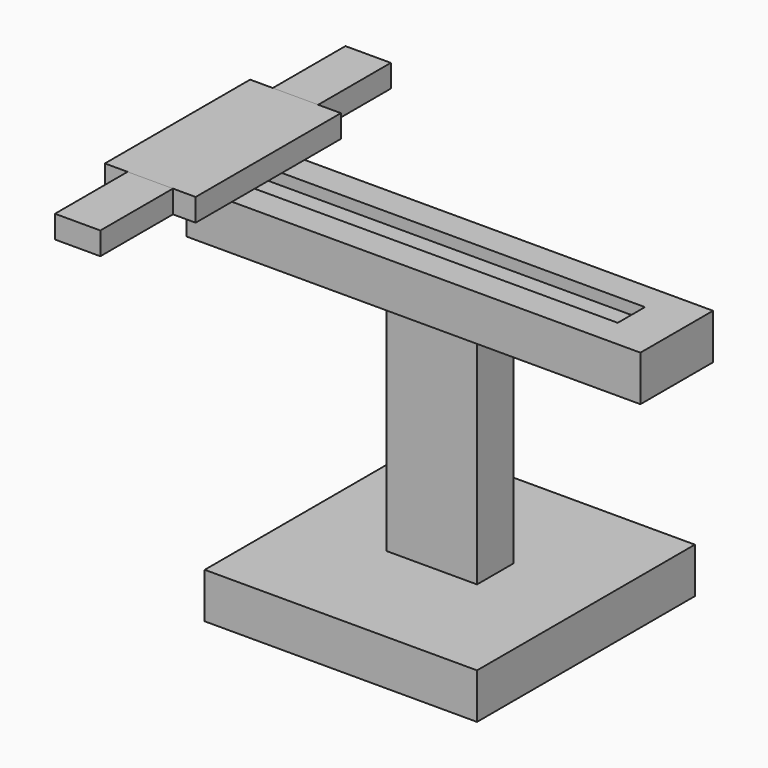
from build123d import *

# Parameters (mm, degrees)
F0_W      = 152.4
F0_H      = 152.4
F1_DEPTH  = 25.4
F2_W      = 50.8
F2_H      = 25.4
F3_DEPTH  = 152.4
F4_W      = 254
F4_H      = 50.8
F5_DEPTH  = 25.4
F6_W      = 50.8
F6_H      = 101.6
F7_DEPTH  = 12.7
F8_W      = 203.2
F8_H      = 19.05
F9_DEPTH  = 6.35
F10_W     = 25.4
F10_H     = 50.8
F11_DEPTH = 12.7
F12_W     = 19.05
F12_H     = 6.35
F13_DEPTH = 50.8


with BuildPart() as f1:
    # F0 (on Top) → F1 (new body)
    with BuildSketch(Plane.XY):
        Rectangle(F0_W, F0_H)
    extrude(amount=F1_DEPTH)

    # F2 (on Top) → F3 (join)
    with BuildSketch(Plane.XY):
        Rectangle(F2_W, F2_H)
    extrude(amount=F3_DEPTH)

    # F4 (on face) → F5 (join)
    with BuildSketch(Plane.XY.offset(152.4)):
        Rectangle(F4_W, F4_H)
    extrude(amount=F5_DEPTH)

    # F6 (on face) → F7 (join)
    with BuildSketch(Plane.XY.offset(177.8)):
        with Locations((-127, 0)):
            Rectangle(F6_W, F6_H)
    extrude(amount=F7_DEPTH)

    # F8 (on face) → F9 (cut)
    with BuildSketch(Plane.XY.offset(177.8)):
        Rectangle(F8_W, F8_H)
    extrude(amount=-F9_DEPTH, mode=Mode.SUBTRACT)

    # F12 (on face) → F13 (cut)
    with BuildSketch(Plane.YZ.offset(-101.6)):
        with Locations((0, 174.625)):
            Rectangle(F12_W, F12_H)
    extrude(amount=-F13_DEPTH, mode=Mode.SUBTRACT)


with BuildPart() as f11:
    # F10 (on face) → F11 (new body)
    with BuildSketch(Plane.XY.offset(190.5)):
        with Locations((-127, -76.2)):
            Rectangle(F10_W, F10_H)
        with Locations((-127, 76.2)):
            Rectangle(F10_W, F10_H)
    extrude(amount=-F11_DEPTH)


solid = Compound([f1.part, f11.part])
